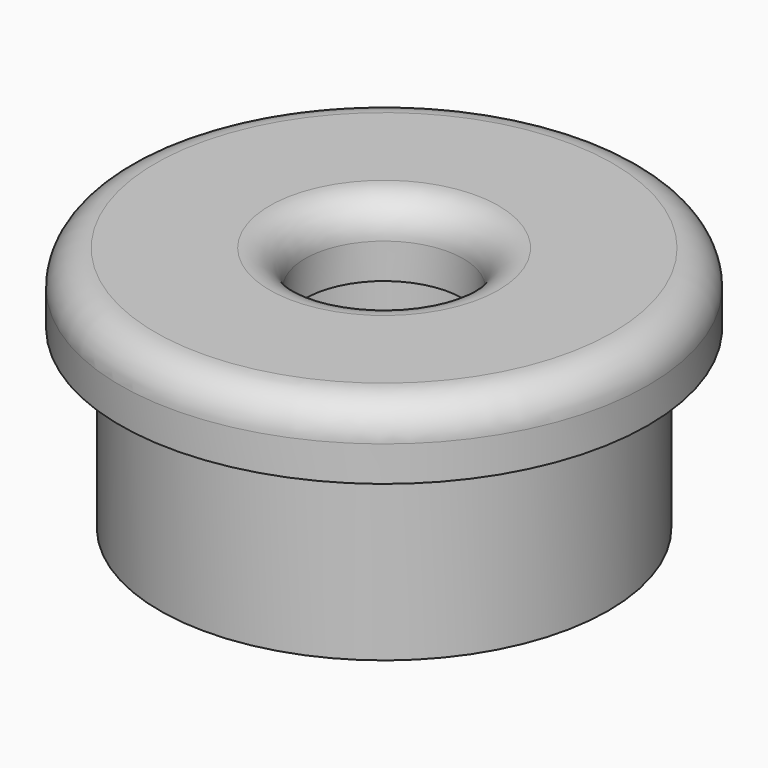
from build123d import *

# Parameters (mm, degrees)
F0_R     = 15
F0_R_2   = 4.5
F1_DEPTH = 4
F2_R     = 12.75
F2_R_2   = 6
F3_DEPTH = 10
F4_R     = 2


with BuildPart() as f1:
    # F0 (on Top) → F1 (new body)
    with BuildSketch(Plane.XY):
        Circle(F0_R)
        Circle(F0_R_2, mode=Mode.SUBTRACT)
    extrude(amount=F1_DEPTH)

    # F2 (on face) → F3 (join)
    with BuildSketch(Plane(origin=(0, 0, 0), x_dir=(1, 0, 0), z_dir=(0, 0, -1))):
        Circle(F2_R)
        Circle(F2_R_2, mode=Mode.SUBTRACT)
    extrude(amount=F3_DEPTH)

    # F4
    f4_edges = [f1.edges().sort_by_distance(p)[0] for p in [
        (-15, 0, 4),
        (-4.5, 0, 4),
    ]]
    fillet(f4_edges, radius=F4_R)


solid = f1.part
